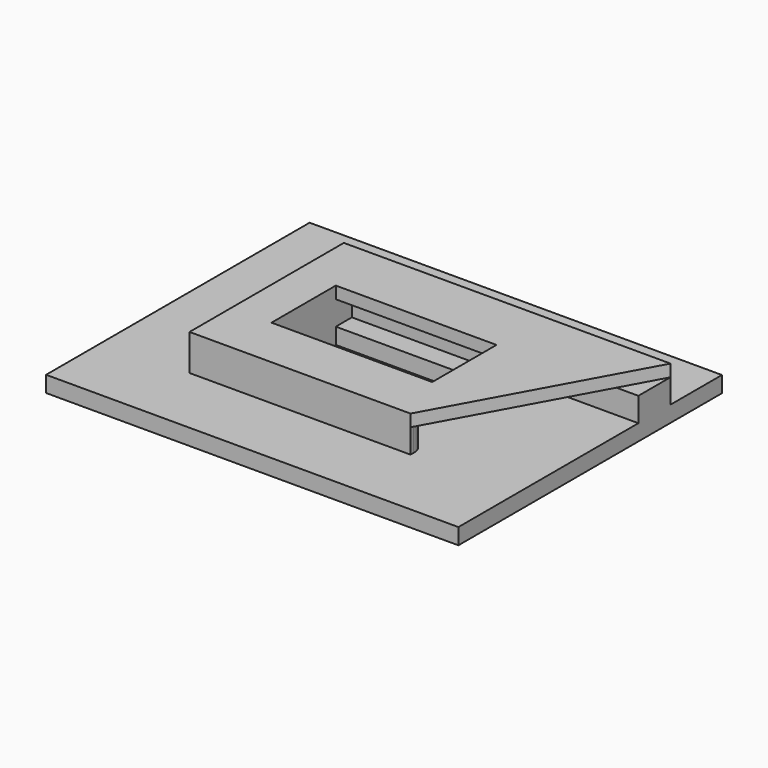
from build123d import *

# Parameters (mm, degrees)
SKETCH005_W     = 102.620446
SKETCH005_H     = 81.982758
PAD005_DEPTH    = 3
SKETCH006_W     = 102.620446
SKETCH006_H     = 81.982758
SKETCH006_W_2   = 40
SKETCH006_H_2   = 20
PAD006_DEPTH    = 1
PAD006_FACE18_W = 20
PAD006_FACE18_H = 40
POCKET_DEPTH    = 3.001
SKETCH007_R     = 31
SKETCH007_R_2   = 29.055
PAD007_DEPTH    = 3
PAD013_DEPTH    = 6
SKETCH014_W     = 40
SKETCH014_H     = 20
PAD014_DEPTH    = 3


with BuildPart() as part:
    # Sketch005 → Pad005 (new body)
    with BuildSketch(Plane.XY):
        Rectangle(SKETCH005_W, SKETCH005_H)
        with BuildLine():
            ThreePointArc((-21.953744, 12.675), (0, -25.35), (21.953744, 12.675))
            ThreePointArc((-21.953744, 12.675), (0, -28.406865), (21.953744, 12.675))
        make_face(mode=Mode.SUBTRACT)
    extrude(amount=PAD005_DEPTH)

    # Sketch006 (on Face8 of Pad005) → Pad006 (join)
    with BuildSketch(Plane.XY.offset(3)):
        Rectangle(SKETCH006_W, SKETCH006_H)
        Rectangle(SKETCH006_W_2, SKETCH006_H_2, mode=Mode.SUBTRACT)
    extrude(amount=PAD006_DEPTH)

    # Pad006 Face18 → Pocket (cut, through all)
    with BuildSketch(Plane(origin=(0, 0, 3), x_dir=(0, 1, 0), z_dir=(0, 0, 1))):
        Rectangle(PAD006_FACE18_W, PAD006_FACE18_H)
    extrude(amount=-POCKET_DEPTH, mode=Mode.SUBTRACT)

    # Sketch007 (on Face4 of Pocket) → Pad007 (join)
    with BuildSketch(Plane(origin=(0, 0, 0), x_dir=(1, 0, 0), z_dir=(0, 0, -1))):
        with Locations((0, 2)):
            Circle(SKETCH007_R)
        with Locations((0, 2)):
            Circle(SKETCH007_R_2, mode=Mode.SUBTRACT)
    extrude(amount=PAD007_DEPTH)

    # Sketch013 (on Face10 of Pad007) → Pad013 (join)
    with BuildSketch(Plane.XY.offset(4)):
        with BuildLine():
            Line((51.310223, 25), (51.310223, 15))
            Line((51.310223, 15), (-20, 15))
            Line((-20, 15), (-20, -18))
            Line((-20, -18), (21, -18))
            ThreePointArc((25, -22), (23.828427, -19.171573), (21, -18))
            Line((25, -22), (25, -23))
            Line((25, -23), (-30, -23))
            Line((-30, -23), (-30, 25))
            Line((-30, 25), (51.310223, 25))
        make_face()
    extrude(amount=PAD013_DEPTH)

    # Sketch014 (on Face25 of Pad013) → Pad014 (join)
    with BuildSketch(Plane.XY.offset(10)):
        Polygon((51.310223, 25), (25, -23), (-30, -23), (-30, 25), align=None)
        Rectangle(SKETCH014_W, SKETCH014_H, mode=Mode.SUBTRACT)
    extrude(amount=PAD014_DEPTH)


with BuildPart() as part_1:
    # Body002 placement: moved
    add(part.part.moved(Location((0, 0, 30))))


solid = part_1.part
